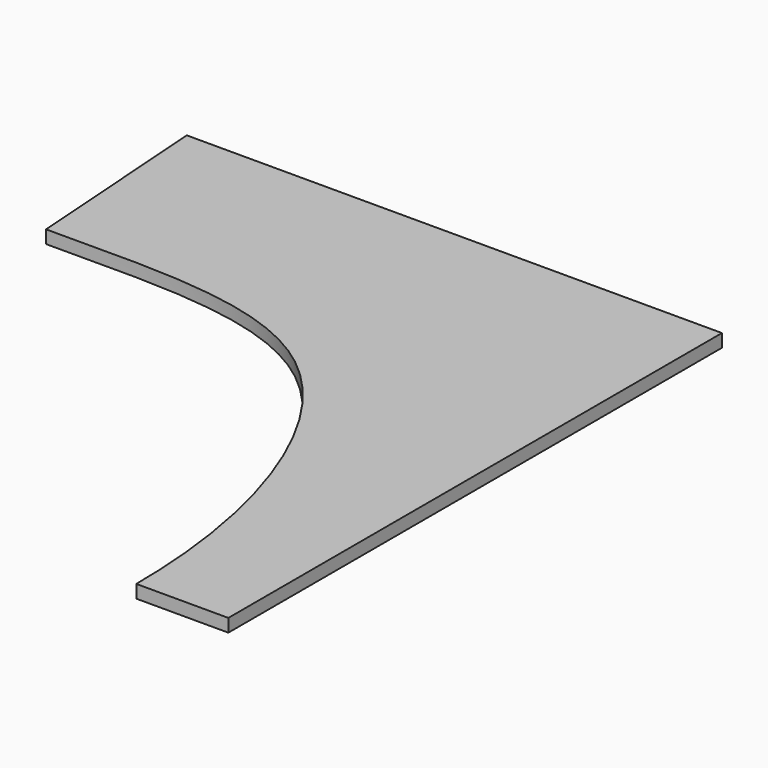
from build123d import *

# Parameters (mm, degrees)
F2_DEPTH = 35


with BuildPart() as f2:
    # F1 (on Top) → F2 (new body)
    with BuildSketch(Plane.XY):
        with BuildLine():
            Line((1440, 1660), (0, 1660))
            Line((0, 1660), (36.5055054426, 1141.3530111313))
            add(Edge.make_bspline(
                [(36.5055054426, 1141.3530111313), (327.2624496405, 1141.3530111313), (924.2682003649, 1181.0278697459), (1192.2100782394, 421.1677394684), (1192.2100782394, 0)],
                knots=[0, 0, 0, 0, 0.4596071243, 1, 1, 1, 1], degree=3))
            Line((1192.2100782394, 0), (1440, 0))
            Line((1440, 0), (1440, 1660))
        make_face()
    extrude(amount=F2_DEPTH)


solid = f2.part
